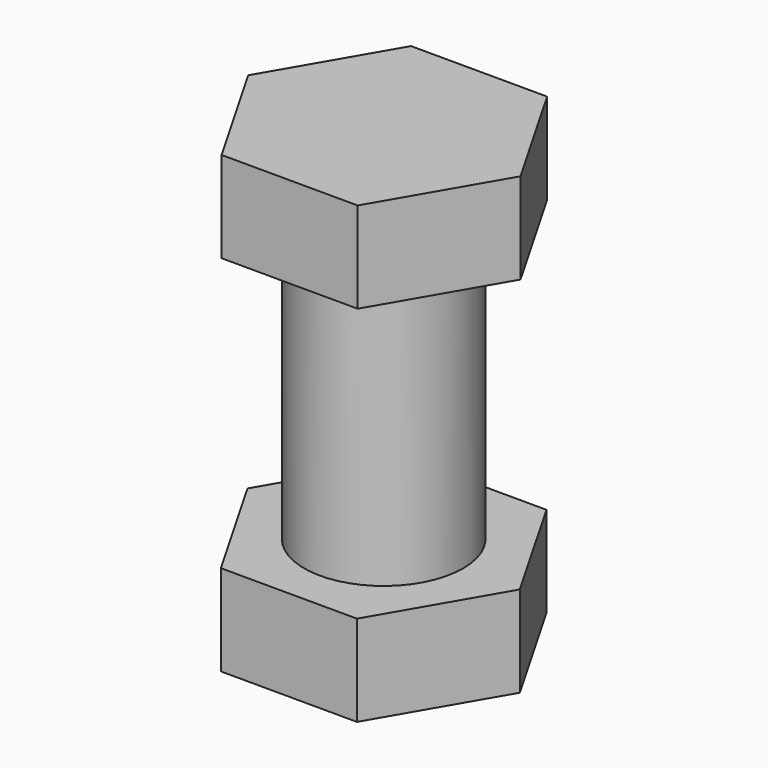
from build123d import *

# Parameters (mm, degrees)
F1_DEPTH = 4
F2_R     = 3.5
F3_DEPTH = 12
F4_R     = 3.5
F5_DEPTH = 4


with BuildPart() as f1:
    # F0 (on Top) → F1 (new body)
    with BuildSketch(Plane.XY):
        Polygon((2.988754, -5.202629), (5.999986, -0.012978), (3.011232, 5.189651), (-2.988754, 5.202629), (-5.999986, 0.012978), (-3.011232, -5.189651), align=None)
    extrude(amount=F1_DEPTH)

    # F2 (on face) → F3 (join)
    with BuildSketch(Plane.XY.offset(4)):
        Circle(F2_R)
    extrude(amount=F3_DEPTH)

    # F4 (on face) → F5 (join)
    with BuildSketch(Plane.XY.offset(16)):
        Polygon((3.002019, -5.180605), (6.013252, 0.009046), (3.024498, 5.211675), (-2.975488, 5.224653), (-5.98672, 0.035002), (-2.997967, -5.167627), align=None)
        Circle(F4_R, mode=Mode.SUBTRACT)
        Circle(F4_R)
    extrude(amount=F5_DEPTH)


solid = f1.part
